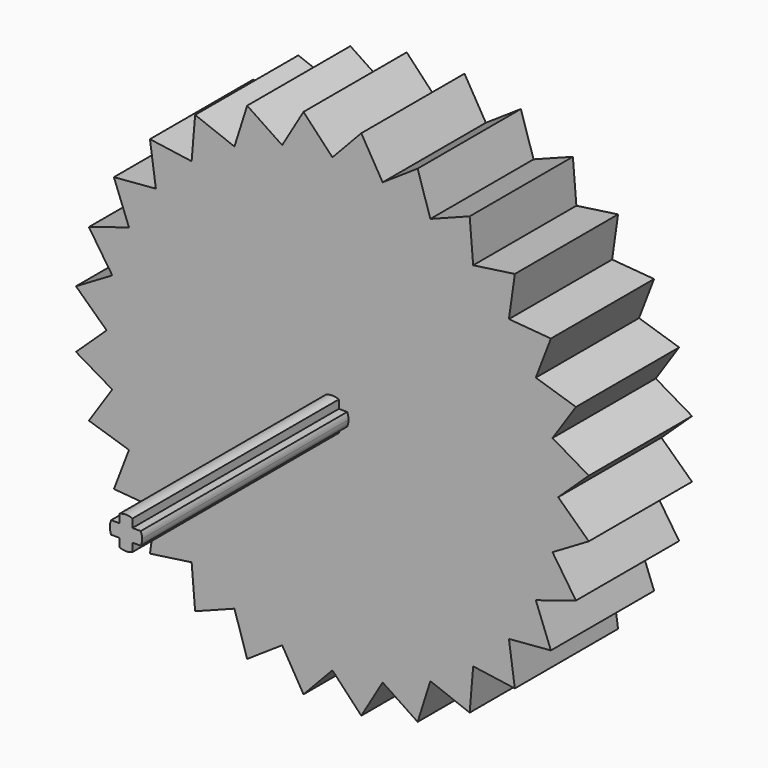
from build123d import *

# Parameters (mm, degrees)
F1_DEPTH = 5.08
F3_W     = 0.508
F3_H     = 0.508
F4_DEPTH = 10.16
F6_DEPTH = 2.54


with BuildPart() as f1:
    # F0 (on Front) → F1 (new body)
    with BuildSketch(Plane.XZ):
        with BuildLine():
            Line((-4.7297651602, 7.5273781311), (0, 0))
            Line((0, 0), (-3.8572264408, 8.0096132357))
            ThreePointArc((-3.8572264408, 8.0096132357), (-4.3002609064, 7.7807362208), (-4.7297651602, 7.5273781311))
        make_face()
        with BuildLine():
            Line((-5.5428243385, 6.9504818791), (0, 0))
            Line((0, 0), (-4.7297651602, 7.5273781311))
            ThreePointArc((-4.7297651602, 7.5273781311), (-5.144387823, 7.250336125), (-5.5428243385, 6.9504818791))
        make_face()
        with BuildLine():
            Line((-5.4054458974, 8.6027178642), (-5.5428243385, 6.9504818791))
            ThreePointArc((-5.5428243385, 6.9504818791), (-5.144387823, 7.250336125), (-4.7297651602, 7.5273781311))
            Line((-4.7297651602, 7.5273781311), (-5.4054458974, 8.6027178642))
        make_face()
        with BuildLine():
            Line((-5.4054458974, 8.6027178642), (-4.7297651602, 7.5273781311))
            ThreePointArc((-4.7297651602, 7.5273781311), (-4.3002609064, 7.7807362208), (-3.8572264408, 8.0096132357))
            Line((-3.8572264408, 8.0096132357), (-5.4054458974, 8.6027178642))
        make_face()
        with BuildLine():
            Line((-3.3556352695, 9.5898546359), (-3.8572264408, 8.0096132357))
            ThreePointArc((-3.8572264408, 8.0096132357), (-3.4020557137, 8.213289044), (-2.9361808608, 8.3911228064))
            Line((-2.9361808608, 8.3911228064), (-3.3556352695, 9.5898546359))
        make_face()
        with BuildLine():
            Line((-3.3556352695, 9.5898546359), (-2.9361808608, 8.3911228064))
            ThreePointArc((-2.9361808608, 8.3911228064), (-2.4610676966, 8.5425549921), (-1.9782111029, 8.6671091393))
            Line((-1.9782111029, 8.6671091393), (-3.3556352695, 9.5898546359))
        make_face()
        with BuildLine():
            Line((-2.9361808608, 8.3911228064), (0, 0))
            Line((0, 0), (-1.9782111029, 8.6671091393))
            ThreePointArc((-1.9782111029, 8.6671091393), (-2.4610676966, 8.5425549921), (-2.9361808608, 8.3911228064))
        make_face()
        with BuildLine():
            Line((-3.8572264408, 8.0096132357), (0, 0))
            Line((0, 0), (-2.9361808608, 8.3911228064))
            ThreePointArc((-2.9361808608, 8.3911228064), (-3.4020557137, 8.213289044), (-3.8572264408, 8.0096132357))
        make_face()
        with BuildLine():
            Line((-0.9953641926, 8.834101546), (0, 0))
            Line((0, 0), (0, 8.89))
            ThreePointArc((0, 8.89), (-0.4984662759, 8.8760143855), (-0.9953641926, 8.834101546))
        make_face()
        with BuildLine():
            ThreePointArc((-0.9953641926, 8.834101546), (-0.4984662759, 8.8760143855), (0, 8.89))
            Line((0, 8.89), (-1.1375590772, 10.0961160525))
            Line((-1.1375590772, 10.0961160525), (-0.9953641926, 8.834101546))
        make_face()
        with BuildLine():
            Line((-1.1375590772, 10.0961160525), (-1.9782111029, 8.6671091393))
            ThreePointArc((-1.9782111029, 8.6671091393), (-1.4891303252, 8.7643933546), (-0.9953641926, 8.834101546))
            Line((-0.9953641926, 8.834101546), (-1.1375590772, 10.0961160525))
        make_face()
        with BuildLine():
            Line((-1.9782111029, 8.6671091393), (0, 0))
            Line((0, 0), (-0.9953641926, 8.834101546))
            ThreePointArc((-0.9953641926, 8.834101546), (-1.4891303252, 8.7643933546), (-1.9782111029, 8.6671091393))
        make_face()
        with BuildLine():
            Line((-6.2861792847, 6.2861792847), (0, 0))
            Line((0, 0), (-5.5428243385, 6.9504818791))
            ThreePointArc((-5.5428243385, 6.9504818791), (-5.923821078, 6.6287588458), (-6.2861792847, 6.2861792847))
        make_face()
        with BuildLine():
            Line((-7.1842048969, 7.1842048969), (-6.2861792847, 6.2861792847))
            ThreePointArc((-6.2861792847, 6.2861792847), (-5.923821078, 6.6287588458), (-5.5428243385, 6.9504818791))
            Line((-5.5428243385, 6.9504818791), (-7.1842048969, 7.1842048969))
        make_face()
        with BuildLine():
            Line((-6.9504818791, 5.5428243385), (0, 0))
            Line((0, 0), (-6.2861792847, 6.2861792847))
            ThreePointArc((-6.2861792847, 6.2861792847), (-6.6287588458, 5.923821078), (-6.9504818791, 5.5428243385))
        make_face()
        with BuildLine():
            Line((-7.1842048969, 7.1842048969), (-6.9504818791, 5.5428243385))
            ThreePointArc((-6.9504818791, 5.5428243385), (-6.6287588458, 5.923821078), (-6.2861792847, 6.2861792847))
            Line((-6.2861792847, 6.2861792847), (-7.1842048969, 7.1842048969))
        make_face()
        with BuildLine():
            Line((-7.5273781311, 4.7297651602), (0, 0))
            Line((0, 0), (-6.9504818791, 5.5428243385))
            ThreePointArc((-6.9504818791, 5.5428243385), (-7.250336125, 5.144387823), (-7.5273781311, 4.7297651602))
        make_face()
        with BuildLine():
            Line((-8.6027178642, 5.4054458974), (-7.5273781311, 4.7297651602))
            ThreePointArc((-7.5273781311, 4.7297651602), (-7.250336125, 5.144387823), (-6.9504818791, 5.5428243385))
            Line((-6.9504818791, 5.5428243385), (-8.6027178642, 5.4054458974))
        make_face()
        with BuildLine():
            Line((-8.6027178642, 5.4054458974), (-8.0096132357, 3.8572264408))
            ThreePointArc((-8.0096132357, 3.8572264408), (-7.7807362208, 4.3002609064), (-7.5273781311, 4.7297651602))
            Line((-7.5273781311, 4.7297651602), (-8.6027178642, 5.4054458974))
        make_face()
        with BuildLine():
            Line((-8.0096132357, 3.8572264408), (0, 0))
            Line((0, 0), (-7.5273781311, 4.7297651602))
            ThreePointArc((-7.5273781311, 4.7297651602), (-7.7807362208, 4.3002609064), (-8.0096132357, 3.8572264408))
        make_face()
        with BuildLine():
            Line((-8.3911228064, 2.9361808608), (0, 0))
            Line((0, 0), (-8.0096132357, 3.8572264408))
            ThreePointArc((-8.0096132357, 3.8572264408), (-8.213289044, 3.4020557137), (-8.3911228064, 2.9361808608))
        make_face()
        with BuildLine():
            Line((-9.5898546359, 3.3556352695), (-8.3911228064, 2.9361808608))
            ThreePointArc((-8.3911228064, 2.9361808608), (-8.213289044, 3.4020557137), (-8.0096132357, 3.8572264408))
            Line((-8.0096132357, 3.8572264408), (-9.5898546359, 3.3556352695))
        make_face()
        with BuildLine():
            Line((-9.5898546359, 3.3556352695), (-8.6671091393, 1.9782111029))
            ThreePointArc((-8.6671091393, 1.9782111029), (-8.5425549921, 2.4610676966), (-8.3911228064, 2.9361808608))
            Line((-8.3911228064, 2.9361808608), (-9.5898546359, 3.3556352695))
        make_face()
        with BuildLine():
            Line((-8.6671091393, 1.9782111029), (0, 0))
            Line((0, 0), (-8.3911228064, 2.9361808608))
            ThreePointArc((-8.3911228064, 2.9361808608), (-8.5425549921, 2.4610676966), (-8.6671091393, 1.9782111029))
        make_face()
        with BuildLine():
            Line((-8.834101546, 0.9953641926), (0, 0))
            Line((0, 0), (-8.6671091393, 1.9782111029))
            ThreePointArc((-8.6671091393, 1.9782111029), (-8.7643933546, 1.4891303252), (-8.834101546, 0.9953641926))
        make_face()
        with BuildLine():
            Line((-10.0961160525, 1.1375590772), (-8.834101546, 0.9953641926))
            ThreePointArc((-8.834101546, 0.9953641926), (-8.7643933546, 1.4891303252), (-8.6671091393, 1.9782111029))
            Line((-8.6671091393, 1.9782111029), (-10.0961160525, 1.1375590772))
        make_face()
        with BuildLine():
            Line((-10.0961160525, 1.1375590772), (-8.89, 0))
            ThreePointArc((-8.89, 0), (-8.8760143855, 0.4984662759), (-8.834101546, 0.9953641926))
            Line((-8.834101546, 0.9953641926), (-10.0961160525, 1.1375590772))
        make_face()
        with BuildLine():
            Line((-8.89, 0), (0, 0))
            Line((0, 0), (-8.834101546, 0.9953641926))
            ThreePointArc((-8.834101546, 0.9953641926), (-8.8760143855, 0.4984662759), (-8.89, 0))
        make_face()
        with BuildLine():
            Line((-8.834101546, -0.9953641926), (0, 0))
            Line((0, 0), (-8.89, 0))
            ThreePointArc((-8.89, 0), (-8.8760143855, -0.4984662759), (-8.834101546, -0.9953641926))
        make_face()
        with BuildLine():
            Line((-10.0961160525, -1.1375590772), (-8.834101546, -0.9953641926))
            ThreePointArc((-8.834101546, -0.9953641926), (-8.8760143855, -0.4984662759), (-8.89, 0))
            Line((-8.89, 0), (-10.0961160525, -1.1375590772))
        make_face()
        with BuildLine():
            Line((-10.0961160525, -1.1375590772), (-8.6671091393, -1.9782111029))
            ThreePointArc((-8.6671091393, -1.9782111029), (-8.7643933546, -1.4891303252), (-8.834101546, -0.9953641926))
            Line((-8.834101546, -0.9953641926), (-10.0961160525, -1.1375590772))
        make_face()
        with BuildLine():
            Line((-8.6671091393, -1.9782111029), (0, 0))
            Line((0, 0), (-8.834101546, -0.9953641926))
            ThreePointArc((-8.834101546, -0.9953641926), (-8.7643933546, -1.4891303252), (-8.6671091393, -1.9782111029))
        make_face()
        with BuildLine():
            Line((-8.3911228064, -2.9361808608), (0, 0))
            Line((0, 0), (-8.6671091393, -1.9782111029))
            ThreePointArc((-8.6671091393, -1.9782111029), (-8.5425549921, -2.4610676966), (-8.3911228064, -2.9361808608))
        make_face()
        with BuildLine():
            Line((-9.5898546359, -3.3556352695), (-8.3911228064, -2.9361808608))
            ThreePointArc((-8.3911228064, -2.9361808608), (-8.5425549921, -2.4610676966), (-8.6671091393, -1.9782111029))
            Line((-8.6671091393, -1.9782111029), (-9.5898546359, -3.3556352695))
        make_face()
        with BuildLine():
            Line((-9.5898546359, -3.3556352695), (-8.0096132357, -3.8572264408))
            ThreePointArc((-8.0096132357, -3.8572264408), (-8.213289044, -3.4020557137), (-8.3911228064, -2.9361808608))
            Line((-8.3911228064, -2.9361808608), (-9.5898546359, -3.3556352695))
        make_face()
        with BuildLine():
            Line((-8.0096132357, -3.8572264408), (0, 0))
            Line((0, 0), (-8.3911228064, -2.9361808608))
            ThreePointArc((-8.3911228064, -2.9361808608), (-8.213289044, -3.4020557137), (-8.0096132357, -3.8572264408))
        make_face()
        with BuildLine():
            Line((-7.5273781311, -4.7297651602), (0, 0))
            Line((0, 0), (-8.0096132357, -3.8572264408))
            ThreePointArc((-8.0096132357, -3.8572264408), (-7.7807362208, -4.3002609064), (-7.5273781311, -4.7297651602))
        make_face()
        with BuildLine():
            Line((-8.6027178642, -5.4054458974), (-7.5273781311, -4.7297651602))
            ThreePointArc((-7.5273781311, -4.7297651602), (-7.7807362208, -4.3002609064), (-8.0096132357, -3.8572264408))
            Line((-8.0096132357, -3.8572264408), (-8.6027178642, -5.4054458974))
        make_face()
        with BuildLine():
            Line((-8.6027178642, -5.4054458974), (-6.9504818791, -5.5428243385))
            ThreePointArc((-6.9504818791, -5.5428243385), (-7.250336125, -5.144387823), (-7.5273781311, -4.7297651602))
            Line((-7.5273781311, -4.7297651602), (-8.6027178642, -5.4054458974))
        make_face()
        with BuildLine():
            Line((-6.9504818791, -5.5428243385), (0, 0))
            Line((0, 0), (-7.5273781311, -4.7297651602))
            ThreePointArc((-7.5273781311, -4.7297651602), (-7.250336125, -5.144387823), (-6.9504818791, -5.5428243385))
        make_face()
        with BuildLine():
            Line((-6.2861792847, -6.2861792847), (0, 0))
            Line((0, 0), (-6.9504818791, -5.5428243385))
            ThreePointArc((-6.9504818791, -5.5428243385), (-6.6287588458, -5.923821078), (-6.2861792847, -6.2861792847))
        make_face()
        with BuildLine():
            Line((-5.5428243385, -6.9504818791), (0, 0))
            Line((0, 0), (-6.2861792847, -6.2861792847))
            ThreePointArc((-6.2861792847, -6.2861792847), (-5.923821078, -6.6287588458), (-5.5428243385, -6.9504818791))
        make_face()
        with BuildLine():
            Line((-4.7297651602, -7.5273781311), (0, 0))
            Line((0, 0), (-5.5428243385, -6.9504818791))
            ThreePointArc((-5.5428243385, -6.9504818791), (-5.144387823, -7.250336125), (-4.7297651602, -7.5273781311))
        make_face()
        with BuildLine():
            Line((-7.1842048969, -7.1842048969), (-6.2861792847, -6.2861792847))
            ThreePointArc((-6.2861792847, -6.2861792847), (-6.6287588458, -5.923821078), (-6.9504818791, -5.5428243385))
            Line((-6.9504818791, -5.5428243385), (-7.1842048969, -7.1842048969))
        make_face()
        with BuildLine():
            Line((-7.1842048969, -7.1842048969), (-5.5428243385, -6.9504818791))
            ThreePointArc((-5.5428243385, -6.9504818791), (-5.923821078, -6.6287588458), (-6.2861792847, -6.2861792847))
            Line((-6.2861792847, -6.2861792847), (-7.1842048969, -7.1842048969))
        make_face()
        with BuildLine():
            Line((-5.4054458974, -8.6027178642), (-4.7297651602, -7.5273781311))
            ThreePointArc((-4.7297651602, -7.5273781311), (-5.144387823, -7.250336125), (-5.5428243385, -6.9504818791))
            Line((-5.5428243385, -6.9504818791), (-5.4054458974, -8.6027178642))
        make_face()
        with BuildLine():
            Line((-5.4054458974, -8.6027178642), (-3.8572264408, -8.0096132357))
            ThreePointArc((-3.8572264408, -8.0096132357), (-4.3002609064, -7.7807362208), (-4.7297651602, -7.5273781311))
            Line((-4.7297651602, -7.5273781311), (-5.4054458974, -8.6027178642))
        make_face()
        with BuildLine():
            Line((-2.9361808608, -8.3911228064), (0, 0))
            Line((0, 0), (-3.8572264408, -8.0096132357))
            ThreePointArc((-3.8572264408, -8.0096132357), (-3.4020557137, -8.213289044), (-2.9361808608, -8.3911228064))
        make_face()
        with BuildLine():
            Line((-3.3556352695, -9.5898546359), (-2.9361808608, -8.3911228064))
            ThreePointArc((-2.9361808608, -8.3911228064), (-3.4020557137, -8.213289044), (-3.8572264408, -8.0096132357))
            Line((-3.8572264408, -8.0096132357), (-3.3556352695, -9.5898546359))
        make_face()
        with BuildLine():
            Line((-3.3556352695, -9.5898546359), (-1.9782111029, -8.6671091393))
            ThreePointArc((-1.9782111029, -8.6671091393), (-2.4610676966, -8.5425549921), (-2.9361808608, -8.3911228064))
            Line((-2.9361808608, -8.3911228064), (-3.3556352695, -9.5898546359))
        make_face()
        with BuildLine():
            Line((-1.9782111029, -8.6671091393), (0, 0))
            Line((0, 0), (-2.9361808608, -8.3911228064))
            ThreePointArc((-2.9361808608, -8.3911228064), (-2.4610676966, -8.5425549921), (-1.9782111029, -8.6671091393))
        make_face()
        with BuildLine():
            Line((-0.9953641926, -8.834101546), (0, 0))
            Line((0, 0), (-1.9782111029, -8.6671091393))
            ThreePointArc((-1.9782111029, -8.6671091393), (-1.4891303252, -8.7643933546), (-0.9953641926, -8.834101546))
        make_face()
        with BuildLine():
            Line((-1.1375590772, -10.0961160525), (0, -8.89))
            ThreePointArc((0, -8.89), (-0.4984662759, -8.8760143855), (-0.9953641926, -8.834101546))
            Line((-0.9953641926, -8.834101546), (-1.1375590772, -10.0961160525))
        make_face()
        with BuildLine():
            ThreePointArc((-0.9953641926, -8.834101546), (-1.4891303252, -8.7643933546), (-1.9782111029, -8.6671091393))
            Line((-1.9782111029, -8.6671091393), (-1.1375590772, -10.0961160525))
            Line((-1.1375590772, -10.0961160525), (-0.9953641926, -8.834101546))
        make_face()
        with BuildLine():
            Line((0, -8.89), (0, 0))
            Line((0, 0), (-0.9953641926, -8.834101546))
            ThreePointArc((-0.9953641926, -8.834101546), (-0.4984662759, -8.8760143855), (0, -8.89))
        make_face()
        with BuildLine():
            Line((-3.8572264408, -8.0096132357), (0, 0))
            Line((0, 0), (-4.7297651602, -7.5273781311))
            ThreePointArc((-4.7297651602, -7.5273781311), (-4.3002609064, -7.7807362208), (-3.8572264408, -8.0096132357))
        make_face()
    extrude(amount=F1_DEPTH)

    # F2: F1 across plane


with BuildPart() as f1_1:
    add(f1.part)
    add(f1.part.mirror(Plane.YZ))

    # F3 (on face) → F4 (join)
    with BuildSketch(Plane.XZ.offset(5.08)):
        with BuildLine():
            Line((0.254, 0.254), (0.254, 0.5819871133))
            ThreePointArc((0.254, 0.5819871133), (0, 0.635), (-0.254, 0.5819871133))
            Line((-0.254, 0.5819871133), (-0.254, 0.254))
            Line((-0.254, 0.254), (0.254, 0.254))
        make_face()
        with BuildLine():
            Line((-0.254, -0.254), (-0.254, 0.254))
            Line((-0.254, 0.254), (-0.5819871133, 0.254))
            ThreePointArc((-0.5819871133, 0.254), (-0.635, 0), (-0.5819871133, -0.254))
            Line((-0.5819871133, -0.254), (-0.254, -0.254))
        make_face()
        Rectangle(F3_W, F3_H)
        with BuildLine():
            ThreePointArc((0.5819871133, -0.254), (0.6216055087, -0.1297366237), (0.635, 0))
            ThreePointArc((0.635, 0), (0.6216055087, 0.1297366237), (0.5819871133, 0.254))
            Line((0.5819871133, 0.254), (0.254, 0.254))
            Line((0.254, 0.254), (0.254, -0.254))
            Line((0.254, -0.254), (0.5819871133, -0.254))
        make_face()
        with BuildLine():
            ThreePointArc((-0.254, -0.5819871133), (0, -0.635), (0.254, -0.5819871133))
            Line((0.254, -0.5819871133), (0.254, -0.254))
            Line((0.254, -0.254), (-0.254, -0.254))
            Line((-0.254, -0.254), (-0.254, -0.5819871133))
        make_face()
    extrude(amount=F4_DEPTH)

    # F5 (on face) → F6 (cut)
    with BuildSketch(Plane(origin=(0, 0, 0), x_dir=(-1, 0, 0), z_dir=(0, 1, 0))):
        with BuildLine():
            ThreePointArc((-0.9242667502, 8.2030942927), (-0.5218814179, 8.410971469), (-0.3603641926, 8.834101546))
            ThreePointArc((-0.3603641926, 8.834101546), (-1.4688469673, 9.257231623), (-0.9242667502, 8.2030942927))
        make_face()
    extrude(amount=-F6_DEPTH, mode=Mode.SUBTRACT)


solid = f1_1.part
